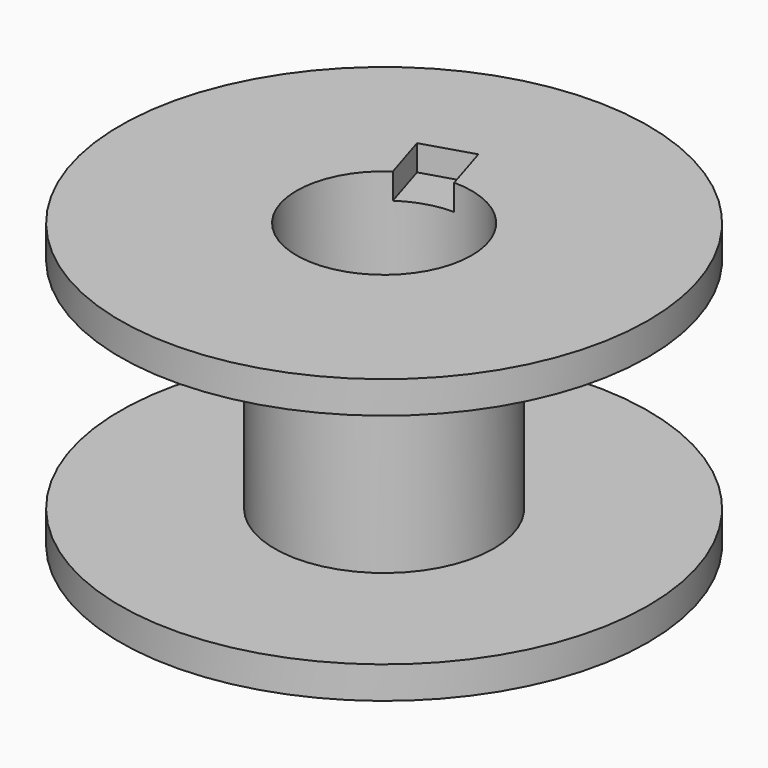
from build123d import *

# Parameters (mm, degrees)
F0_R     = 10.25
F0_R_2   = 4.9
F0_R_3   = 3.4
F1_DEPTH = 5.5
F2_R     = 10.25
F2_R_2   = 4.25
F3_DEPTH = 4.25
F5_DEPTH = 1
F7_DEPTH = 1


with BuildPart() as f1:
    # F0 (on Top) → F1 (new body, symmetric)
    with BuildSketch(Plane.XY):
        Circle(F0_R)
        Circle(F0_R_2, mode=Mode.SUBTRACT)
        Circle(F0_R_2)
        Circle(F0_R_3, mode=Mode.SUBTRACT)
    extrude(amount=F1_DEPTH, both=True)

    # F2 (on Top) → F3 (cut, symmetric)
    with BuildSketch(Plane.XY):
        Circle(F2_R)
        Circle(F2_R_2, mode=Mode.SUBTRACT)
    extrude(amount=F3_DEPTH, both=True, mode=Mode.SUBTRACT)

    # F4 (on face) → F5 (cut)
    with BuildSketch(Plane.XY.offset(5.5)):
        with BuildLine():
            ThreePointArc((-1.911538, 2.811765), (-1, 3.249615), (0, 3.4))
            Line((0, 3.4), (-0.588235, 5.311538))
            Line((-0.588235, 5.311538), (-2.499774, 4.723303))
            Line((-2.499774, 4.723303), (-1.911538, 2.811765))
        make_face()
    extrude(amount=-F5_DEPTH, mode=Mode.SUBTRACT)

    # F6 (on face) → F7 (cut)
    with BuildSketch(Plane(origin=(0, 0, -5.5), x_dir=(1, 0, 0), z_dir=(0, 0, -1))):
        with BuildLine():
            ThreePointArc((0, -3.4), (-0.992761, -3.224814), (-1.912165, -2.811339))
            Line((-1.912165, -2.811339), (-2.463429, -4.789791))
            Line((-2.463429, -4.789791), (-0.536819, -5.32661))
            Line((-0.536819, -5.32661), (0, -3.4))
        make_face()
    extrude(amount=-F7_DEPTH, mode=Mode.SUBTRACT)


solid = f1.part
